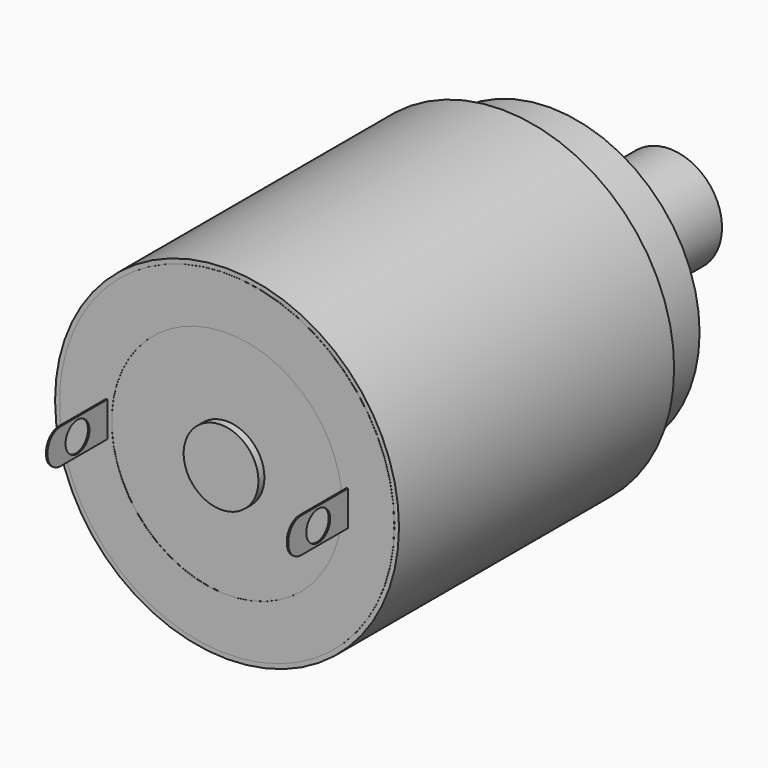
from build123d import *

# Parameters (mm, degrees)
F0_R      = 11.5
F1_DEPTH  = 23
F2_R      = 10
F3_DEPTH  = 4
F4_W      = 0.1
F4_H      = 2.3364797575
F5_DEPTH  = 5
F6_R      = 1
F7_DEPTH  = 25
F8_R      = 1.1
F10_R     = 2.5
F11_DEPTH = 33
F12_R     = 11.1951487388
F12_R_2   = 7.7112913891
F13_DEPTH = 0.01
F14_R     = 2.5
F15_DEPTH = 0.5
F16_R     = 3.5
F17_DEPTH = 4
F18_R     = 2.5
F19_DEPTH = 1


with BuildPart() as f1:
    # F0 (on Front) → F1 (new body)
    with BuildSketch(Plane.XZ):
        Circle(F0_R)
    extrude(amount=F1_DEPTH)

    # F2 (on face) → F3 (join)
    with BuildSketch(Plane(origin=(0, 0, 0), x_dir=(-1, 0, 0), z_dir=(0, 1, 0))):
        Circle(F2_R)
    extrude(amount=F3_DEPTH)

    # F4 (on face) → F5 (join)
    with BuildSketch(Plane.XZ.offset(23)):
        with Locations((-8.0499843252, 0.0158365793)):
            Rectangle(F4_W, F4_H)
    extrude(amount=F5_DEPTH)

    # F6 (on face) → F7 (cut)
    with BuildSketch(Plane.YZ.offset(-7.9999843252)):
        with Locations((-25.5, 0)):
            Circle(F6_R)
    extrude(amount=-F7_DEPTH, mode=Mode.SUBTRACT)

    # F8
    f8_edges = [f1.edges().sort_by_distance(p)[0] for p in [
        (-8.049984, -28, -1.152403),
        (-8.049984, -28, 1.184076),
    ]]
    fillet(f8_edges, radius=F8_R)

    # F9: F1 across plane


with BuildPart() as f1_1:
    add(f1.part)
    add(f1.part.mirror(Plane.YZ))

    # F10 (on face) → F11 (join)
    with BuildSketch(Plane.XZ.offset(23)):
        Circle(F10_R)
    extrude(amount=-F11_DEPTH)

    # F12 (on face) → F13 (join)
    with BuildSketch(Plane.XZ.offset(23)):
        Circle(F12_R)
        Circle(F12_R_2, mode=Mode.SUBTRACT)
    extrude(amount=F13_DEPTH)

    # F14 (on face) → F15 (join)
    with BuildSketch(Plane.XZ.offset(23)):
        Circle(F14_R)
    extrude(amount=F15_DEPTH)

    # F16 (on face) → F17 (join)
    with BuildSketch(Plane(origin=(0, 10, 0), x_dir=(-1, 0, 0), z_dir=(0, 1, 0))):
        Circle(F16_R)
    extrude(amount=F17_DEPTH)

    # F18 (on face) → F19 (cut)
    with BuildSketch(Plane(origin=(0, 14, 0), x_dir=(-1, 0, 0), z_dir=(0, 1, 0))):
        Circle(F18_R)
    extrude(amount=-F19_DEPTH, mode=Mode.SUBTRACT)


solid = f1_1.part
